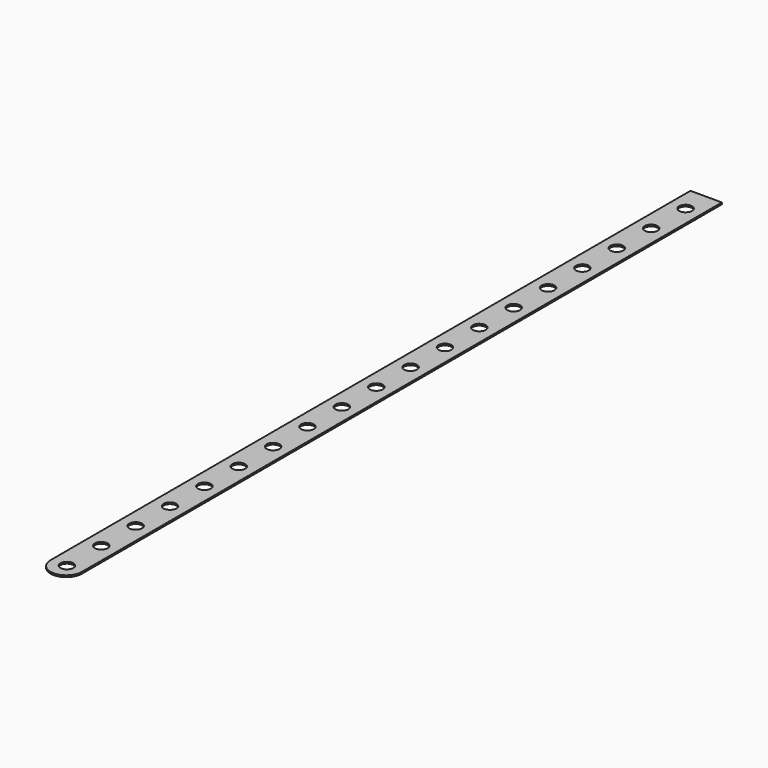
from build123d import *

# Parameters (mm, degrees)
F0_R     = 7.14375
F1_DEPTH = 1.8796


with BuildPart() as f1:
    # F0 (on Top) → F1 (new body)
    with BuildSketch(Plane.XY):
        with BuildLine():
            Line((0, 28.575), (0, 26.827432))
            ThreePointArc((0, 26.827432), (17.4625, 10.216869), (34.925, 26.827432))
            Line((34.925, 26.827432), (34.925, 28.575))
            Line((34.925, 28.575), (34.925, 914.4))
            Line((34.925, 914.4), (0, 914.4))
            Line((0, 914.4), (0, 28.575))
        make_face()
        with Locations((17.4625, 28.575)):
            Circle(F0_R, mode=Mode.SUBTRACT)
        with Locations((17.4625, 76.2)):
            Circle(F0_R, mode=Mode.SUBTRACT)
        with Locations((17.4625, 123.825)):
            Circle(F0_R, mode=Mode.SUBTRACT)
        with Locations((17.4625, 171.45)):
            Circle(F0_R, mode=Mode.SUBTRACT)
        with Locations((17.4625, 219.075)):
            Circle(F0_R, mode=Mode.SUBTRACT)
        with Locations((17.4625, 266.7)):
            Circle(F0_R, mode=Mode.SUBTRACT)
        with Locations((17.4625, 314.325)):
            Circle(F0_R, mode=Mode.SUBTRACT)
        with Locations((17.4625, 361.95)):
            Circle(F0_R, mode=Mode.SUBTRACT)
        with Locations((17.4625, 409.575)):
            Circle(F0_R, mode=Mode.SUBTRACT)
        with Locations((17.4625, 457.2)):
            Circle(F0_R, mode=Mode.SUBTRACT)
        with Locations((17.4625, 504.825)):
            Circle(F0_R, mode=Mode.SUBTRACT)
        with Locations((17.4625, 552.45)):
            Circle(F0_R, mode=Mode.SUBTRACT)
        with Locations((17.4625, 600.075)):
            Circle(F0_R, mode=Mode.SUBTRACT)
        with Locations((17.4625, 647.7)):
            Circle(F0_R, mode=Mode.SUBTRACT)
        with Locations((17.4625, 695.325)):
            Circle(F0_R, mode=Mode.SUBTRACT)
        with Locations((17.4625, 742.95)):
            Circle(F0_R, mode=Mode.SUBTRACT)
        with Locations((17.4625, 790.575)):
            Circle(F0_R, mode=Mode.SUBTRACT)
        with Locations((17.4625, 838.2)):
            Circle(F0_R, mode=Mode.SUBTRACT)
        with Locations((17.4625, 885.825)):
            Circle(F0_R, mode=Mode.SUBTRACT)
    extrude(amount=F1_DEPTH)


solid = f1.part
